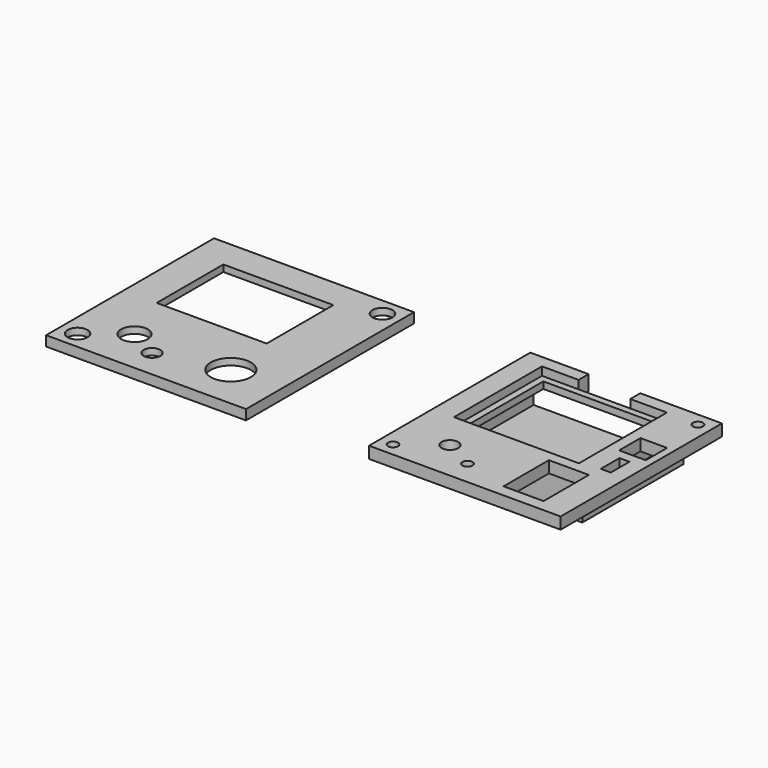
from build123d import *

# Parameters (mm, degrees)
F1_W      = 57.5
F1_H      = 60.5
F1_R      = 1.5
F1_R_2    = 2.5
F1_W_2    = 12
F1_H_2    = 17
F1_W_3    = 3
F1_H_3    = 7
F1_W_4    = 37.5
F1_H_4    = 33
F1_W_5    = 8
F1_H_5    = 8
F2_DEPTH  = 3.5
F4_W      = 37.5
F4_H      = 33
F4_W_2    = 33.5
F4_H_2    = 29
F5_DEPTH  = 1
F3_W      = 15.5
F3_H      = 3.75
F6_DEPTH  = 2.5
F0_W      = 58
F0_H      = 61
F0_R      = 3
F0_R_2    = 4
F0_R_3    = 2.5
F0_R_4    = 6
F0_W_2    = 33
F0_H_2    = 25
F0_H_3    = 1
F8_DEPTH  = 2
F9_DEPTH  = 1
F11_W     = 46
F11_H     = 38
F12_DEPTH = 11
F13_W     = 44
F13_H     = 9
F14_DEPTH = 37
F15_W     = 1
F15_H     = 5
F16_DEPTH = 20
F17_W     = 33.5
F17_H     = 29
F17_W_2   = 15.5
F17_H_2   = 3.75
F18_DEPTH = 4


with BuildPart() as f2:
    # F1 (on Top) → F2 (new body)
    with BuildSketch(Plane.XY):
        with Locations((94.661044, 0)):
            Rectangle(F1_W, F1_H)
        with Locations((69.911044, -26.25)):
            Circle(F1_R, mode=Mode.SUBTRACT)
        with Locations((89.661044, -23)):
            Circle(F1_R, mode=Mode.SUBTRACT)
        with Locations((80.511044, -18.15)):
            Circle(F1_R_2, mode=Mode.SUBTRACT)
        with Locations((109.411044, -18.15)):
            Rectangle(F1_W_2, F1_H_2, mode=Mode.SUBTRACT)
        with Locations((117.161044, -2)):
            Rectangle(F1_W_3, F1_H_3, mode=Mode.SUBTRACT)
        with Locations((91.161044, 10)):
            Rectangle(F1_W_4, F1_H_4, mode=Mode.SUBTRACT)
        with Locations((117.161044, 8.5)):
            Rectangle(F1_W_5, F1_H_5, mode=Mode.SUBTRACT)
        with Locations((119.411044, 26.25)):
            Circle(F1_R, mode=Mode.SUBTRACT)
    extrude(amount=F2_DEPTH)

    # F4 (on face) → F5 (join)
    with BuildSketch(Plane(origin=(0, 0, 0), x_dir=(1, 0, 0), z_dir=(0, 0, -1))):
        with Locations((91.161044, -10)):
            Rectangle(F4_W, F4_H)
        with Locations((91.161044, -10)):
            Rectangle(F4_W_2, F4_H_2, mode=Mode.SUBTRACT)
    extrude(amount=-F5_DEPTH)

    # F3 (on face) → F6 (cut)
    with BuildSketch(Plane.XY.offset(3.5)):
        with Locations((91.161044, 28.375)):
            Rectangle(F3_W, F3_H)
    extrude(amount=-F6_DEPTH, mode=Mode.SUBTRACT)

    # F11 (on face) → F12 (join)
    with BuildSketch(Plane(origin=(0, 0, 0), x_dir=(1, 0, 0), z_dir=(0, 0, -1))):
        with Locations((88.911044, -11.25)):
            Rectangle(F11_W, F11_H)
    extrude(amount=F12_DEPTH)

    # F13 (on face) → F14 (cut)
    with BuildSketch(Plane(origin=(0, 30.25, 0), x_dir=(-1, 0, 0), z_dir=(0, 1, 0))):
        with Locations((-88.911044, -5.5)):
            Rectangle(F13_W, F13_H)
    extrude(amount=-F14_DEPTH, mode=Mode.SUBTRACT)

    # F15 (on face) → F16 (cut)
    with BuildSketch(Plane(origin=(0, 30.25, 0), x_dir=(-1, 0, 0), z_dir=(0, 1, 0))):
        with Locations((-111.411044, -6.5)):
            Rectangle(F15_W, F15_H)
    extrude(amount=-F16_DEPTH, mode=Mode.SUBTRACT)

    # F17 (on face) → F18 (cut)
    with BuildSketch(Plane.XY.offset(1)):
        with Locations((91.161044, 10)):
            Rectangle(F17_W, F17_H)
        with Locations((91.161044, 28.375)):
            Rectangle(F17_W_2, F17_H_2)
    extrude(amount=-F18_DEPTH, mode=Mode.SUBTRACT)


with BuildPart() as f8:
    # F0 (on Top) → F8 (new body)
    with BuildSketch(Plane.XY):
        Rectangle(F0_W, F0_H)
        with Locations((-24.75, -26.25)):
            Circle(F0_R, mode=Mode.SUBTRACT)
        with Locations((-14.15, -18.15)):
            Circle(F0_R_2, mode=Mode.SUBTRACT)
        with Locations((-5, -23)):
            Circle(F0_R_3, mode=Mode.SUBTRACT)
        with Locations((14.75, -18.15)):
            Circle(F0_R_4, mode=Mode.SUBTRACT)
        with Locations((-3.5, 10)):
            Rectangle(F0_W_2, F0_H_2, mode=Mode.SUBTRACT)
        with Locations((24.75, 26.25)):
            Circle(F0_R, mode=Mode.SUBTRACT)
        Polygon((-29, -31.5), (-29, -30.5), (-29, 30.5), (-29, 31.5), (-30, 31.5), (-30, -31.5), align=None)
        with Locations((0, 31)):
            Rectangle(F0_W, F0_H_3)
        Polygon((29, 30.5), (29, -30.5), (29, -31.5), (30, -31.5), (30, 31.5), (29, 31.5), align=None)
        with Locations((0, -31)):
            Rectangle(F0_W, F0_H_3)
    extrude(amount=F8_DEPTH)

    # F0 (on Top) → F9 (join)
    with BuildSketch(Plane.XY):
        with Locations((0, 31)):
            Rectangle(F0_W, F0_H_3)
        Polygon((-29, -31.5), (-29, -30.5), (-29, 30.5), (-29, 31.5), (-30, 31.5), (-30, -31.5), align=None)
        with Locations((0, -31)):
            Rectangle(F0_W, F0_H_3)
        Polygon((29, 30.5), (29, -30.5), (29, -31.5), (30, -31.5), (30, 31.5), (29, 31.5), align=None)
    extrude(amount=-F9_DEPTH)


solid = Compound([f2.part, f8.part])
